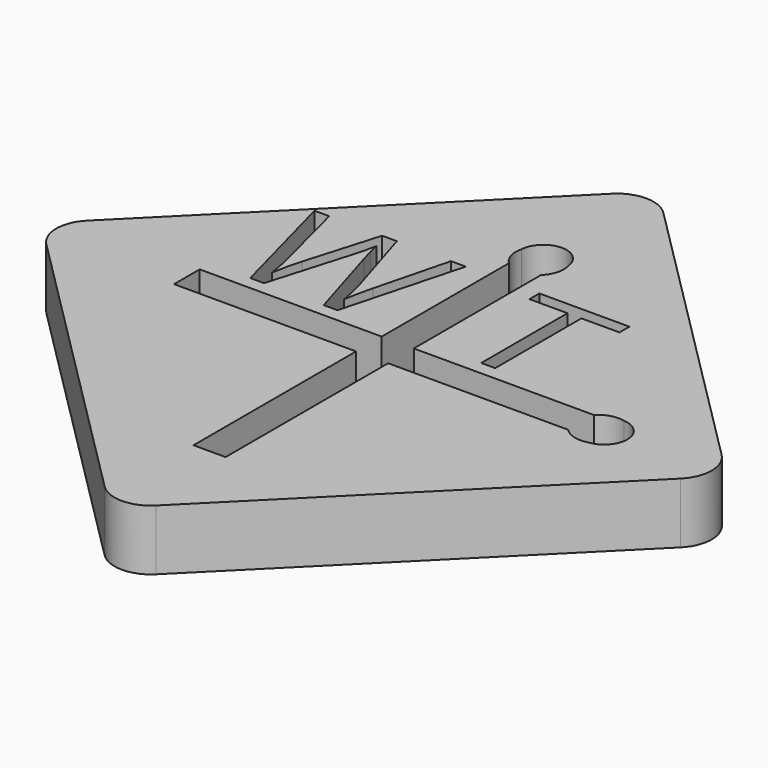
from build123d import *

# Parameters (mm, degrees)
F1_DEPTH = 2.5
F2_R     = 0.85
F3_DEPTH = 12.5


with BuildPart() as f1:
    # F0 (on Top) → F1 (new body)
    with BuildSketch(Plane.XY):
        with BuildLine():
            Line((13.081475452, -13.081475452), (1.0606601718, -1.0606601718))
            ThreePointArc((1.0606601718, -1.0606601718), (0, -0.6213203436), (-1.0606601718, -1.0606601718))
            Line((-1.0606601718, -1.0606601718), (-13.081475452, -13.081475452))
            ThreePointArc((-13.081475452, -13.081475452), (-13.5208152802, -14.1421356237), (-13.081475452, -15.2027957955))
            Line((-13.081475452, -15.2027957955), (-1.0606601718, -27.2236110757))
            ThreePointArc((-1.0606601718, -27.2236110757), (0, -27.6629509039), (1.0606601718, -27.2236110757))
            Line((1.0606601718, -27.2236110757), (13.081475452, -15.2027957955))
            ThreePointArc((13.081475452, -15.2027957955), (13.5208152802, -14.1421356237), (13.081475452, -13.081475452))
        make_face()
        with BuildLine():
            Line((-1.559338312, -7.9764372607), (-2.8852931731, -12.9341195524))
            Line((-2.8852931731, -12.9341195524), (-3.4549546314, -12.9341195524))
            Line((-3.4549546314, -12.9341195524), (-4.4553886592, -9.6148921218))
            add(Edge.make_bspline(
                [(-4.4553886592, -9.6148921218), (-4.5270032425, -9.3935379552), (-4.6148938675, -9.0582514968)],
                knots=[0, 0, 0, 1, 1, 1], degree=2))
            add(Edge.make_bspline(
                [(-4.6148938675, -9.0582514968), (-4.7027844925, -8.7229650385), (-4.7060397009, -8.6546056635)],
                knots=[0, 0, 0, 1, 1, 1], degree=2))
            add(Edge.make_bspline(
                [(-4.7060397009, -8.6546056635), (-4.7809094925, -9.102739344), (-4.9436699092, -9.6344233718)],
                knots=[0, 0, 0, 1, 1, 1], degree=2))
            Line((-4.9436699092, -9.6344233718), (-5.9137219925, -12.9341195524))
            Line((-5.9137219925, -12.9341195524), (-6.4833834509, -12.9341195524))
            Line((-6.4833834509, -12.9341195524), (-7.8028278953, -7.9764372607))
            Line((-7.8028278953, -7.9764372607), (-7.1919337981, -7.9764372607))
            Line((-7.1919337981, -7.9764372607), (-6.4085136592, -11.0385032329))
            add(Edge.make_bspline(
                [(-6.4085136592, -11.0385032329), (-6.2457532425, -11.6830344829), (-6.1708834509, -12.2049528857)],
                knots=[0, 0, 0, 1, 1, 1], degree=2))
            add(Edge.make_bspline(
                [(-6.1708834509, -12.2049528857), (-6.0797376175, -11.5842931635), (-5.8996160898, -10.9907601774)],
                knots=[0, 0, 0, 1, 1, 1], degree=2))
            Line((-5.8996160898, -10.9907601774), (-5.0120292842, -7.9764372607))
            Line((-5.0120292842, -7.9764372607), (-4.401135187, -7.9764372607))
            Line((-4.401135187, -7.9764372607), (-3.4690605342, -11.0178869135))
            add(Edge.make_bspline(
                [(-3.4690605342, -11.0178869135), (-3.3063001175, -11.544145594), (-3.1945379648, -12.2049528857)],
                knots=[0, 0, 0, 1, 1, 1], degree=2))
            add(Edge.make_bspline(
                [(-3.1945379648, -12.2049528857), (-3.1294337981, -11.7231820524), (-2.9503973398, -11.0319928163)],
                knots=[0, 0, 0, 1, 1, 1], degree=2))
            Line((-2.9503973398, -11.0319928163), (-2.1702324092, -7.9764372607))
            Line((-2.1702324092, -7.9764372607), (-1.559338312, -7.9764372607))
        make_face(mode=Mode.SUBTRACT)
        with BuildLine():
            Line((-8.1334756687, -14.8039748892), (-8.1334756687, -13.4802963582))
            Line((-8.1334756687, -13.4802963582), (-0.6236797201, -13.4802963582))
            Line((-0.6236797201, -13.4802963582), (-0.6236797201, -6.9198086858))
            ThreePointArc((-0.6236797201, -6.9198086858), (-0.9032194318, -6.4583786209), (-0.9135835525, -5.9189782686))
            ThreePointArc((-0.9135835525, -5.9189782686), (0.0168397474, -5.0141534426), (0.9868078824, -5.876451129))
            ThreePointArc((0.9868078824, -5.876451129), (0.9900106564, -6.4384308628), (0.6999988109, -6.9198086858))
            Line((0.6999988109, -6.9198086858), (0.6999988109, -13.4802963582))
            Line((0.6999988109, -13.4802963582), (8.1334756687, -13.4802963582))
            ThreePointArc((8.1334756687, -13.4802963582), (8.5949057336, -13.2007566465), (9.134306086, -13.1903925258))
            ThreePointArc((9.134306086, -13.1903925258), (10.0391309119, -14.1208158258), (9.1768332255, -15.0907839607))
            ThreePointArc((9.1768332255, -15.0907839607), (8.6148534917, -15.0939867347), (8.1334756687, -14.8039748892))
            Line((8.1334756687, -14.8039748892), (0.6999988109, -14.8039748892))
            Line((0.6999988109, -14.8039748892), (0.6999988109, -23.1867600232))
            Line((0.6999988109, -23.1867600232), (-0.6236797201, -23.1867600232))
            Line((-0.6236797201, -23.1867600232), (-0.6236797201, -14.8039748892))
            Line((-0.6236797201, -14.8039748892), (-8.1334756687, -14.8039748892))
        make_face(mode=Mode.SUBTRACT)
        Polygon((3.6052975431, -8.467799659), (3.6052975431, -12.9133291729), (3.0291256681, -12.9133291729), (3.0291256681, -8.467799659), (1.459030182, -8.467799659), (1.459030182, -7.9556468812), (5.1753930292, -7.9556468812), (5.1753930292, -8.467799659), align=None, mode=Mode.SUBTRACT)
    extrude(amount=F1_DEPTH)

    # F2 (on Right) → F3 (cut, symmetric)
    with BuildSketch(Plane.YZ):
        with Locations((-2.4908210296, 1.292226194)):
            Circle(F2_R)
    extrude(amount=F3_DEPTH, both=True, mode=Mode.SUBTRACT)


solid = f1.part
